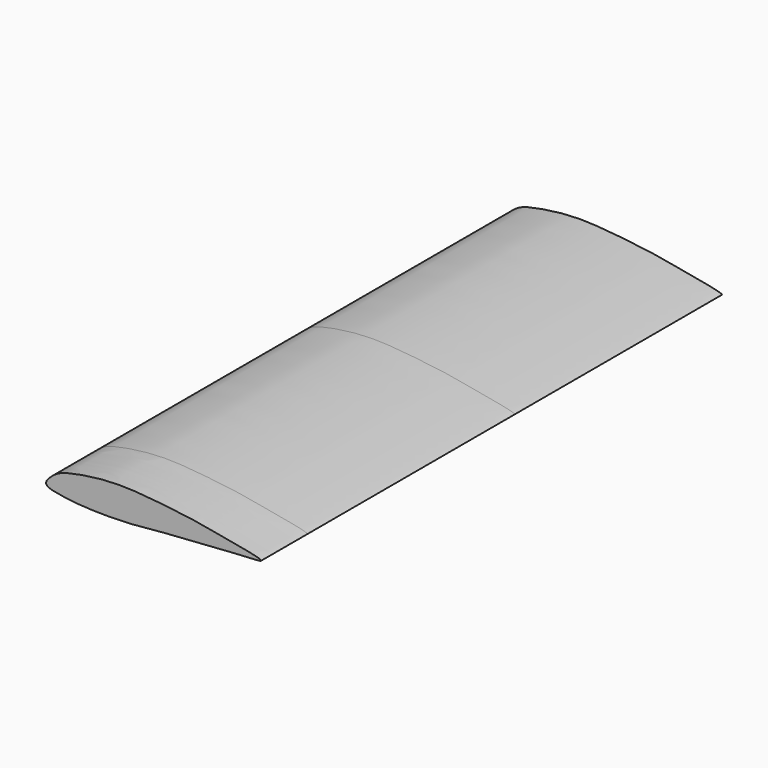
from build123d import *

# Parameters (mm, degrees)
F1_DEPTH = 114.3
F2_DEPTH = 25.4


with BuildPart() as f1:
    # F0 (on Front) → F1 (new body, symmetric)
    with BuildSketch(Plane.XZ):
        with BuildLine():
            add(Edge.make_bspline(
                [(94.6774557233, 0), (94.0114129626, 0.8469472928), (75.0772009503, 4.0177469763), (66.9866038099, 5.7346287242), (53.057006646, 7.4577813014), (40.8204509136, 8.7102524002), (28.3475816436, 9.1526034046), (15.7444766644, 7.60569637), (5.0709712766, 5.3886091561), (1.1288639866, 1.5134256002), (-0.0800313973, 0.1495839976), (-0.5795528093, -2.1711082694), (6.6729663554, -3.7043176429), (16.9390793362, -4.7919829498), (29.7446859914, -4.9647096932), (39.335104002, -4.4788820107), (50.3491382399, -3.2940284179), (60.161523082, -2.7418898306), (81.9451869303, -0.9000076422), (95.1807569235, -0.6400033364), (94.6774557233, 0)],
                knots=[0, 0, 0, 0, 0.0747054599, 0.132453767, 0.1958278569, 0.2581964081, 0.3198346513, 0.3831391748, 0.4408308865, 0.480192856, 0.5033374923, 0.524748777, 0.5682615532, 0.6269942943, 0.6895234017, 0.7445478432, 0.8013107329, 0.8567089281, 0.9435481476, 1, 1, 1, 1], degree=3))
        make_face()
    extrude(amount=F1_DEPTH, both=True)

    # F2 (add): a face of the model
    f2_faces = [f1.faces().sort_by_distance(p)[0] for p in [
        (39.8450405064, -114.3, 1.7035286782),
    ]]
    extrude(f2_faces, amount=F2_DEPTH)


solid = f1.part
